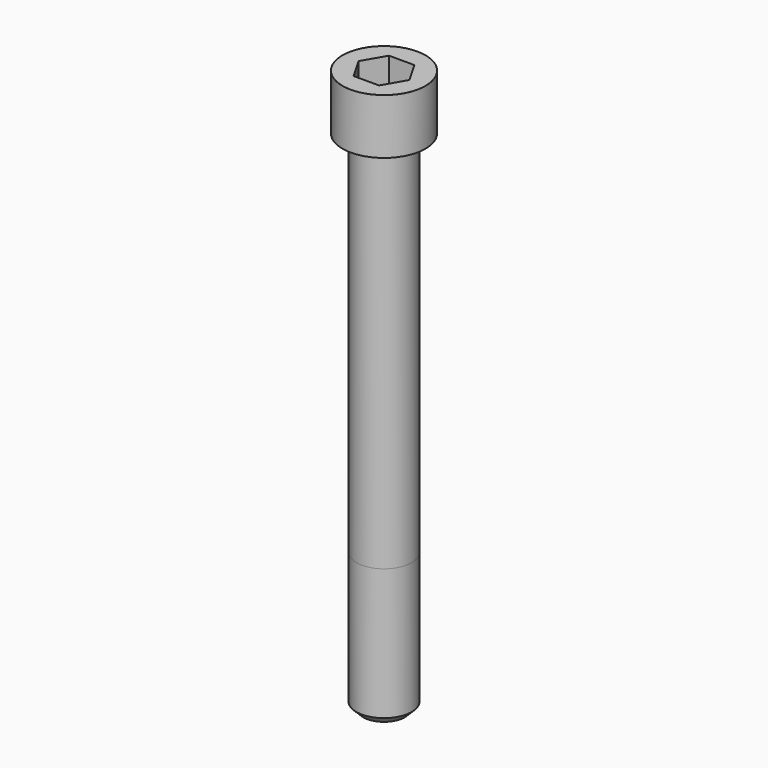
from build123d import *

# Parameters (mm, degrees)
POCKET_DEPTH = 19.15


with BuildPart() as part:
    # Sketch → Revolve (revolve)
    with BuildSketch(Plane.YZ):
        with BuildLine():
            Line((11.999, 0), (18, 0))
            Line((18, 0), (18, 23.97229))
            ThreePointArc((18, 23.97229), (17.991884, 23.991884), (17.97229, 24))
            Line((17.97229, 24), (0, 24))
            Line((0, -220), (0, 24))
            Line((9, -220), (0, -220))
            Line((12, -217), (9, -220))
            Line((12, -160), (12, -217))
            Line((11.999, 0), (12, -160))
        make_face()
    revolve(axis=Axis((0, 0, 0), (0, 0, 1)))

    # Sketch001 → Pocket (cut)
    with BuildSketch(Plane.XY.offset(24)):
        Polygon((11.056258, 0), (5.528129, 9.575), (-5.528129, 9.575), (-11.056258, 0), (-5.528129, -9.575), (5.528129, -9.575), align=None)
    extrude(amount=-POCKET_DEPTH, mode=Mode.SUBTRACT)


solid = part.part
